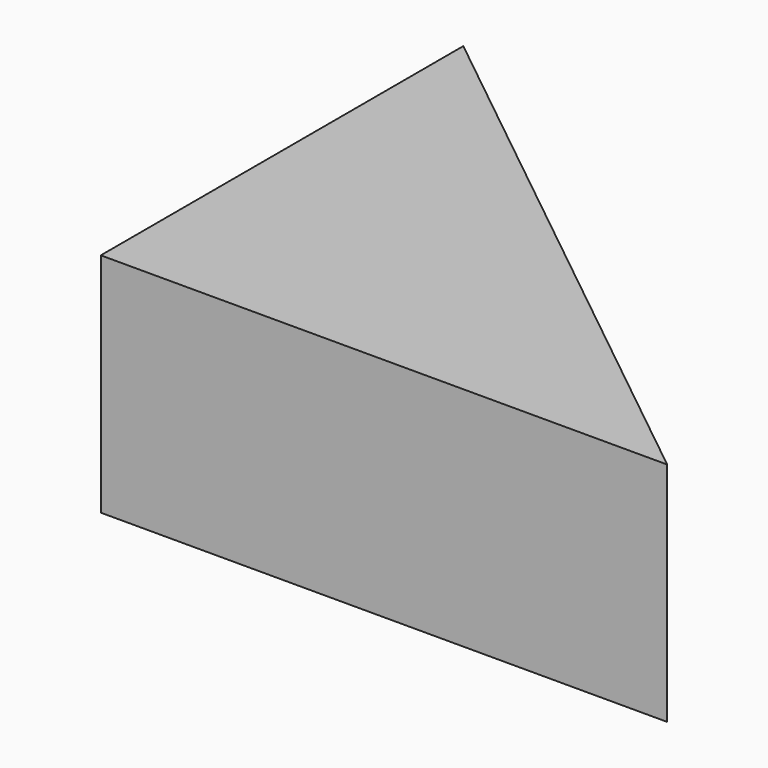
from build123d import *

# Parameters (mm, degrees)
F1_DEPTH = 4


with BuildPart() as f1:
    # F0 (on Top) → F1 (new body)
    with BuildSketch(Plane.XY):
        Polygon((6.383156, -3.807437), (-3.616844, 4.192563), (-3.616844, -3.807437), align=None)
    extrude(amount=-F1_DEPTH)


solid = f1.part
